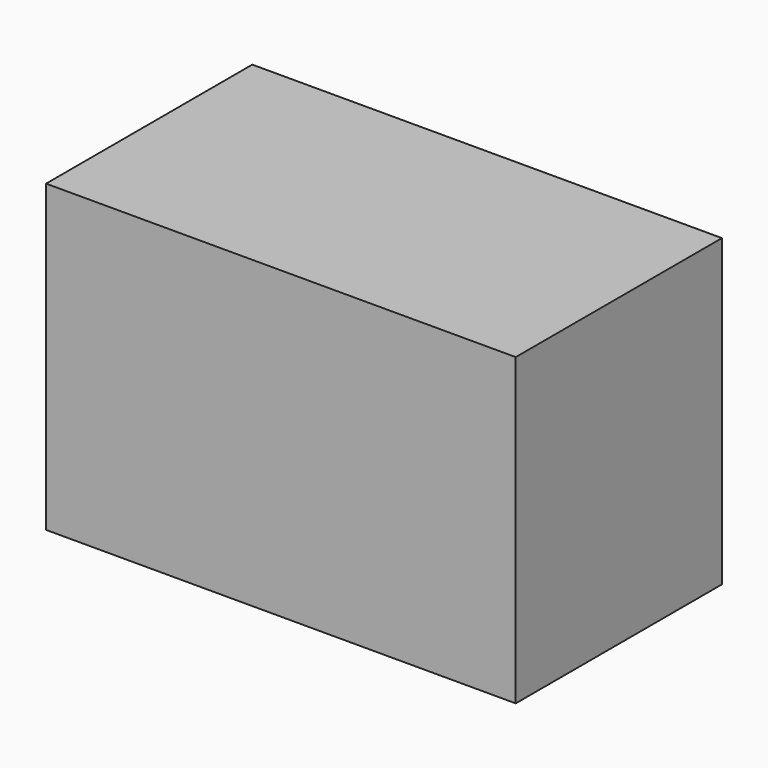
from build123d import *

# Parameters (mm, degrees)
F0_W     = 154.0562212467
F0_H     = 84.5467969775
F1_DEPTH = 100
F2_W     = 31.9160297513
F2_H     = 23.1920611113
F2_H_2   = 51.9947484136
F2_W_2   = 51.5566654503
F2_H_3   = 35.9055362642
F3_DEPTH = 25


with BuildPart() as f1:
    # F0 (on Top) → F1 (new body)
    with BuildSketch(Plane.XY):
        with Locations((-77.0281106234, -42.2733984888)):
            Rectangle(F0_W, F0_H)
    extrude(amount=F1_DEPTH)

    # F2 (on face) → F3 (cut)
    with BuildSketch(Plane(origin=(0, 0, 0), x_dir=(-1, 0, 0), z_dir=(0, 1, 0))):
        with Locations((123.3677379787, -11.5960305557)):
            Rectangle(F2_W, F2_H)
        with Locations((123.3677379787, 25.9973742068)):
            Rectangle(F2_W, F2_H_2)
        with Locations((59.8425548524, 60.434082523)):
            Rectangle(F2_W_2, F2_H_3)
    extrude(amount=-F3_DEPTH, mode=Mode.SUBTRACT)


solid = f1.part
